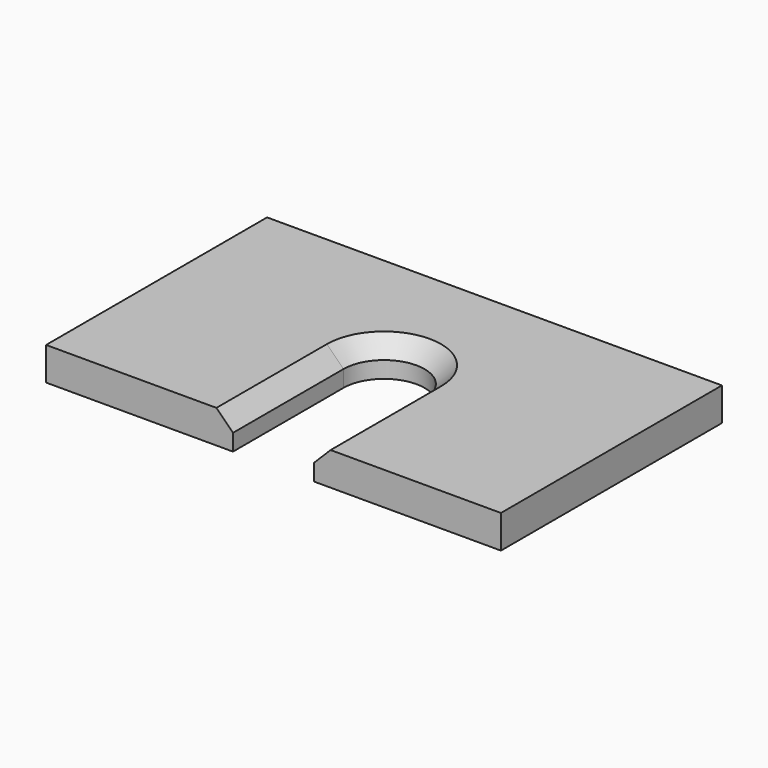
from build123d import *

# Parameters (mm, degrees)
SKETCH_W     = 247
SKETCH_H     = 150
PAD_DEPTH    = 18
POCKET_DEPTH = 18.001
CHAMFER_SIZE = 9


with BuildPart() as part:
    # Sketch → Pad (new body)
    with BuildSketch(Plane.XY):
        with Locations((-123.5, 75)):
            Rectangle(SKETCH_W, SKETCH_H)
    extrude(amount=PAD_DEPTH)

    # Sketch001 (on Face6 of Pad) → Pocket (cut, through all)
    with BuildSketch(Plane.XY.offset(18)):
        with BuildLine():
            ThreePointArc((-101.5, 75), (-123.5, 97), (-145.5, 75))
            Line((-145.5, 75), (-145.5, 0))
            Line((-101.5, 0), (-145.5, 0))
            Line((-101.5, 75), (-101.5, 0))
        make_face()
    extrude(amount=-POCKET_DEPTH, mode=Mode.SUBTRACT)

    # Chamfer
    chamfer_edges = [part.edges().sort_by_distance(p)[0] for p in [
        (-145.5, 37.5, 18),
        (-123.5, 97, 18),
        (-101.5, 37.5, 18),
    ]]
    chamfer(chamfer_edges, length=CHAMFER_SIZE)


solid = part.part
